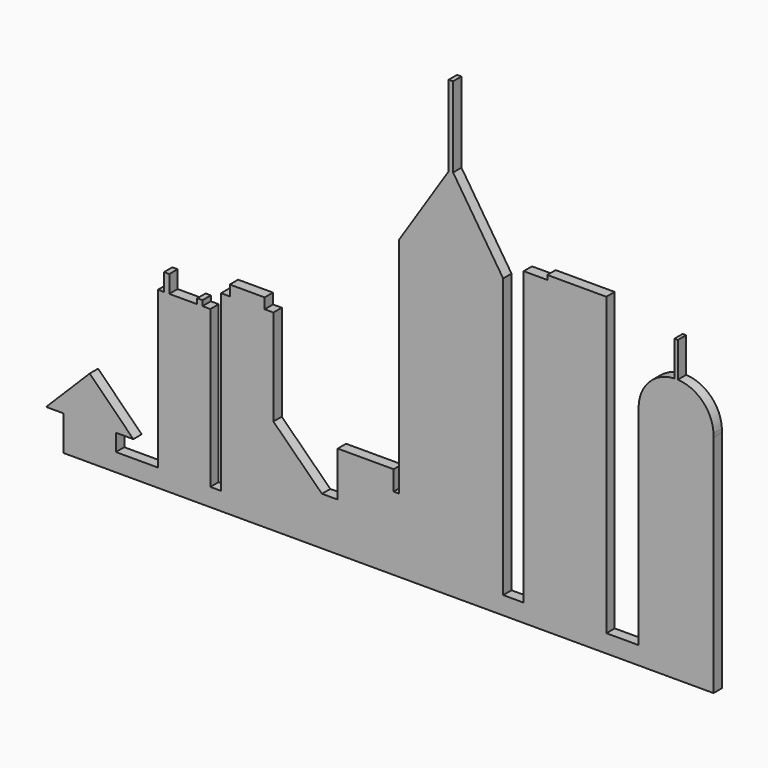
from build123d import *

# Parameters (mm, degrees)
F0_W     = 12.0587127507
F0_H     = 5.1275454462
F0_W_2   = 3.073014915
F0_W_3   = 1.5
F0_H_2   = 5
F0_W_4   = 5.8694817126
F0_H_3   = 1.5
F0_W_5   = 10
F0_H_4   = 3
F0_W_6   = 9.2557147145
F1_DEPTH = 3


with BuildPart() as f1:
    # F0 (on Front) → F1 (new body)
    with BuildSketch(Plane.XZ):
        Polygon((-85.9764102697, -32.9992154241), (-85.9764102697, -42.9992154241), (-70.9764102697, -42.9992154241), (-70.9764102697, -37.8716699779), (-70.9764102697, -32.9992154241), (-65.9764102697, -32.9992154241), (-78.4764102697, -20.4992154241), (-90.9764102697, -32.9992154241), align=None)
        with Locations((-64.9470538944, -40.435442701)):
            Rectangle(F0_W, F0_H)
        Polygon((-58.9176975191, -37.8716699779), (-58.9176975191, -42.9992154241), (-43.9176975191, -42.9992154241), (-43.9176975191, -37.8716699779), (-43.9176975191, 7.0007845759), (-46.1646348834, 7.0007845759), (-47.6646348834, 7.0007845759), (-55.679722935, 7.0007845759), (-57.179722935, 7.0007845759), (-58.9176975191, 7.0007845759), align=None)
        with Locations((-42.3811900616, -40.435442701)):
            Rectangle(F0_W_2, F0_H)
        Polygon((-40.8446826041, -37.8716699779), (-40.8446826041, -42.9992154241), (-25.8446826041, -42.9992154241), (-25.8446826041, -15.4992154241), (-25.8446826041, 12.0007845759), (-28.3446826041, 12.0007845759), (-38.3446826041, 12.0007845759), (-40.8446826041, 12.0007845759), align=None)
        Polygon((-25.8446826041, -15.4992154241), (-25.8446826041, -42.9992154241), (39.9925373495, -42.9992154241), (39.9925373495, -37.8716699779), (39.9925373495, 42.0007845759), (25.0529701523, 42.0007845759), (10.1134029552, 42.0007845759), (10.1134029552, -21.9735670835), (8.6134029552, -21.9735670835), (8.6134029552, -16.3298398256), (-7.4147884734, -16.3298398256), (-7.4147884734, -29.1975438595), (-11.9297718629, -29.1975438595), align=None)
        with Locations((-56.429722935, 9.5007845759)):
            Rectangle(F0_W_3, F0_H_2)
        with Locations((42.9272782058, -40.435442701)):
            Rectangle(F0_W_4, F0_H)
        with Locations((-46.9146348834, 7.7507845759)):
            Rectangle(F0_W_3, F0_H_3)
        Polygon((45.862019062, -37.8716699779), (45.862019062, -42.9992154241), (69.5656836033, -42.9992154241), (69.5656836033, -37.8716699779), (69.5656836033, 47.0007845759), (52.6344925165, 47.0007845759), (52.6344925165, 45.7507845759), (45.862019062, 45.7507845759), align=None)
        with Locations((-33.3446826041, 13.5007845759)):
            Rectangle(F0_W_5, F0_H_4)
        with Locations((74.1935409606, -40.435442701)):
            Rectangle(F0_W_6, F0_H)
        Polygon((25.0529701523, 42.0007845759), (39.9925373495, 42.0007845759), (25.6491004298, 64.0628009761), (25.0529701523, 64.979724586), align=None)
        with BuildLine():
            Line((78.8213983178, -37.8716699779), (78.8213983178, -42.9992154241))
            Line((78.8213983178, -42.9992154241), (100.2675741911, -42.9992154241))
            Line((100.2675741911, -42.9992154241), (100.2675741911, 21.5343244148))
            Line((100.2675741911, 21.5343244148), (100.2675741911, 22.4990192801))
            ThreePointArc((100.2675741911, 22.4990192801), (97.140766726, 29.6004569802), (90.0444862545, 32.7389511733))
            ThreePointArc((90.0444862545, 32.7389511733), (89.5444862545, 32.7506028116), (89.0444862545, 32.7389511733))
            ThreePointArc((89.0444862545, 32.7389511733), (81.9482057829, 29.6004569802), (78.8213983178, 22.4990192801))
            Line((78.8213983178, 22.4990192801), (78.8213983178, 21.5343244148))
            Line((78.8213983178, 21.5343244148), (78.8213983178, -37.8716699779))
        make_face()
        Polygon((10.1134029552, 42.0007845759), (25.0529701523, 42.0007845759), (25.0529701523, 64.979724586), (24.3911507636, 63.9617628318), align=None)
        Polygon((25.0529701523, 64.979724586), (25.6491004298, 64.0628009761), (25.6491004298, 87.0592445135), (25.0529701523, 87.0592445135), align=None)
        Polygon((24.3911507636, 63.9617628318), (25.0529701523, 64.979724586), (25.0529701523, 87.0592445135), (24.3911507636, 87.0592445135), align=None)
        with BuildLine():
            Line((100.2675741911, 22.4990192801), (100.2675741911, 21.5343244148))
            ThreePointArc((100.2675741911, 21.5343244148), (100.2784172186, 22.0166718474), (100.2675741911, 22.4990192801))
        make_face()
        with BuildLine():
            ThreePointArc((78.8213983178, 22.4990192801), (78.8105552903, 22.0166718474), (78.8213983178, 21.5343244148))
            Line((78.8213983178, 21.5343244148), (78.8213983178, 22.4990192801))
        make_face()
        with BuildLine():
            ThreePointArc((89.0444862545, 32.7389511733), (89.5444862545, 32.7506028116), (90.0444862545, 32.7389511733))
            Line((90.0444862545, 32.7389511733), (90.0444862545, 42.7506028116))
            Line((90.0444862545, 42.7506028116), (89.0444862545, 42.7506028116))
            Line((89.0444862545, 42.7506028116), (89.0444862545, 32.7389511733))
        make_face()
    extrude(amount=F1_DEPTH)


solid = f1.part
